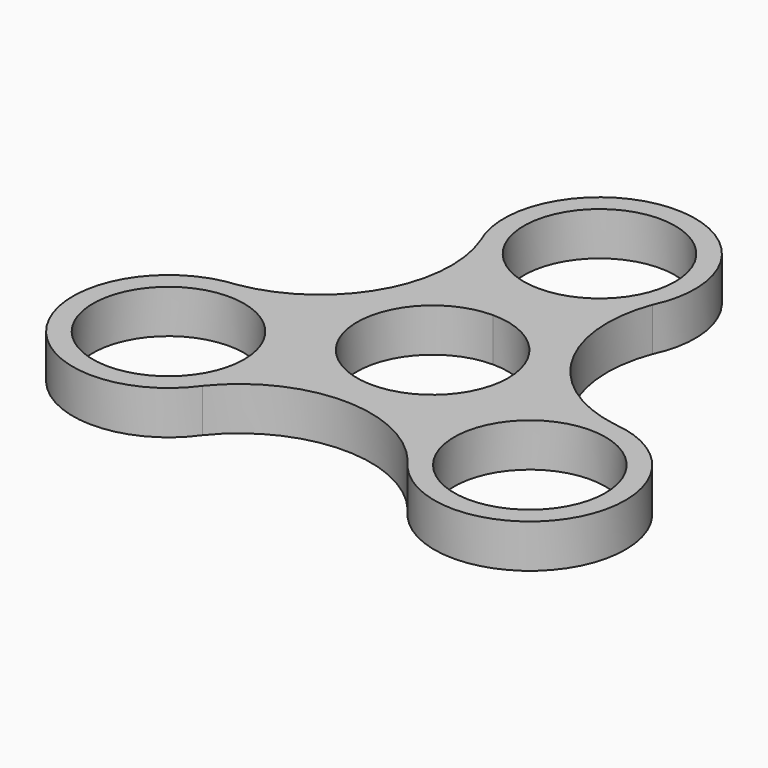
from build123d import *

# Parameters (mm, degrees)
F0_R     = 11.049
F1_DEPTH = 6.35


with BuildPart() as f1:
    # F0 (on Top) → F1 (new body)
    with BuildSketch(Plane.XY):
        with BuildLine():
            ThreePointArc((11.049, 30.48), (-7.812823, 38.292823), (0, 19.431))
            ThreePointArc((0, 19.431), (7.812823, 22.667177), (11.049, 30.48))
        make_face()
        with BuildLine():
            ThreePointArc((11.049, 0), (7.812823, 7.812823), (0, 11.049))
            ThreePointArc((0, 11.049), (-7.812823, -7.812823), (11.049, 0))
        make_face()
        with BuildLine():
            ThreePointArc((-12.686879, 24.631581), (-13.893155, 8.140727), (-27.460614, -1.31059))
            ThreePointArc((-27.460614, -1.31059), (-38.54826, -22.131627), (-14.988135, -23.30295))
            ThreePointArc((-14.988135, -23.30295), (-0.103499, -16.102189), (14.865311, -23.126295))
            ThreePointArc((14.865311, -23.126295), (38.440681, -22.317959), (27.675014, -1.328631))
            ThreePointArc((27.675014, -1.328631), (13.996654, 7.961461), (12.595303, 24.436885))
            ThreePointArc((12.595303, 24.436885), (0.107579, 44.449586), (-12.686879, 24.631581))
        make_face()
        with Locations((-26.396454, -15.24)):
            Circle(F0_R, mode=Mode.SUBTRACT)
        with Locations((26.396454, -15.24)):
            Circle(F0_R, mode=Mode.SUBTRACT)
        with BuildLine():
            ThreePointArc((11.049, 0), (-7.812823, -7.812823), (0, 11.049))
            ThreePointArc((0, 11.049), (7.812823, 7.812823), (11.049, 0))
        make_face(mode=Mode.SUBTRACT)
        with BuildLine():
            ThreePointArc((11.049, 30.48), (7.812823, 22.667177), (0, 19.431))
            ThreePointArc((0, 19.431), (-7.812823, 38.292823), (11.049, 30.48))
        make_face(mode=Mode.SUBTRACT)
    extrude(amount=F1_DEPTH)


solid = f1.part
